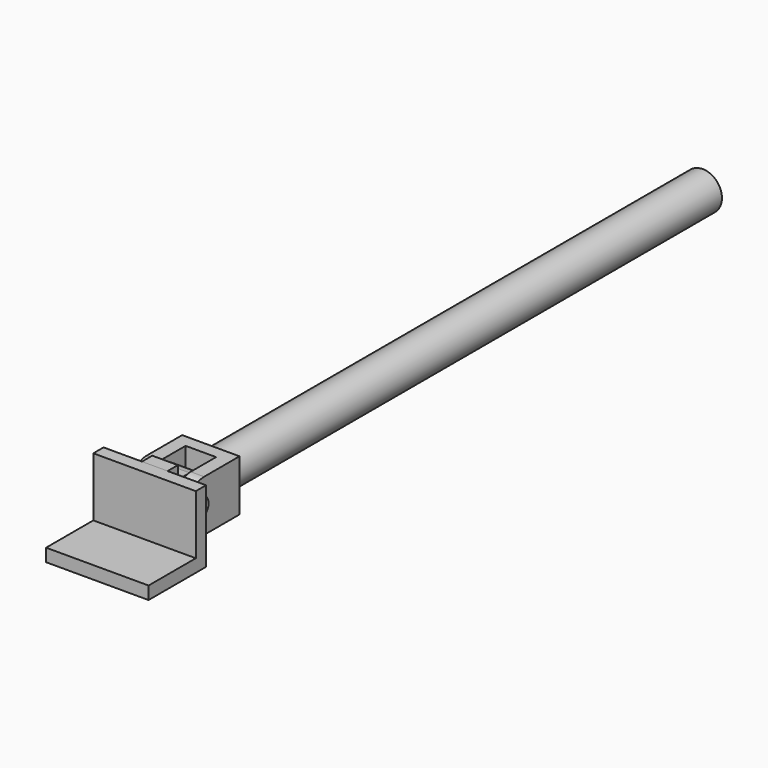
from build123d import *

# Parameters (mm, degrees)
F1_DEPTH  = 50.8
F2_W      = 25.4
F2_H      = 71.2560223817
F3_DEPTH  = 43.18
F4_R      = 9.525
F5_DEPTH  = 63.501
F7_DEPTH  = 63.501
F10_DEPTH = 25.4
F11_R     = 19.05
F12_R     = 9.525
F13_DEPTH = 79.2273342619
F14_R     = 19.05
F15_DEPTH = 609.6


with BuildPart() as f1:
    # F0 (on Right) → F1 (new body, symmetric)
    with BuildSketch(Plane.YZ):
        Polygon((-71.2560223817, 0), (0, 0), (0, 71.2560223817), (-12.7, 71.2560223817), (-12.7, 12.7), (-71.2560223817, 12.7), align=None)
    extrude(amount=F1_DEPTH, both=True)


with BuildPart() as f3:
    # F2 (on face) → F3 (new body)
    with BuildSketch(Plane(origin=(0, 0, 0), x_dir=(-1, 0, 0), z_dir=(0, 1, 0))):
        with Locations((0, 35.6280111909)):
            Rectangle(F2_W, F2_H)
    extrude(amount=F3_DEPTH)

    # F4 (on face) → F5 (cut, through all)
    with BuildSketch(Plane(origin=(-12.7, 0, 0), x_dir=(0, -1, 0), z_dir=(-1, 0, 0))):
        with Locations((-21.59, 35.6280111909)):
            Circle(F4_R)
    extrude(amount=-F5_DEPTH, mode=Mode.SUBTRACT)

    # F6 (on face) → F7 (cut, through all)
    with BuildSketch(Plane(origin=(-12.7, 0, 0), x_dir=(0, -1, 0), z_dir=(-1, 0, 0))):
        with BuildLine():
            ThreePointArc((-27.305, 12.7), (-38.5303201513, 17.3496798487), (-43.18, 28.575))
            Line((-43.18, 28.575), (-43.18, 0))
            Line((-43.18, 0), (-12.7, 0))
            Line((-12.7, 0), (-12.7, 12.7))
            Line((-12.7, 12.7), (-27.305, 12.7))
        make_face()
        with BuildLine():
            Line((-12.7, 58.5560223817), (-12.7, 71.2560223817))
            Line((-12.7, 71.2560223817), (-43.18, 71.2560223817))
            Line((-43.18, 71.2560223817), (-43.18, 42.6810223817))
            ThreePointArc((-43.18, 42.6810223817), (-38.5303201513, 53.9063425331), (-27.305, 58.5560223817))
            Line((-27.305, 58.5560223817), (-12.7, 58.5560223817))
        make_face()
    extrude(amount=-F7_DEPTH, mode=Mode.SUBTRACT)


with BuildPart() as f10:
    # F9 (on mid) → F10 (new body, symmetric)
    with BuildSketch(Plane.XY.offset(35.6280111909)):
        Polygon((15.1226995513, 57.0255741477), (15.1226995513, 6.4842337742), (28.4263342619, 6.4842337742), (28.4263342619, 69.4291517138), (-28.4263342619, 69.4291517138), (-28.4263342619, 6.4842337742), (-15.1226995513, 6.4842337742), (-15.1226995513, 57.0255741477), align=None)
    extrude(amount=F10_DEPTH, both=True)

    # F11
    f11_edges = [f10.edges().sort_by_distance(p)[0] for p in [
        (21.774517, 6.484234, 61.028011),
        (-21.774517, 6.484234, 61.028011),
        (21.774517, 6.484234, 10.228011),
        (-21.774517, 6.484234, 10.228011),
    ]]
    fillet(f11_edges, radius=F11_R)

    # F12 (on face) → F13 (cut, through all)
    with BuildSketch(Plane.YZ.offset(28.4263342619)):
        with Locations((21.59, 35.6280111909)):
            Circle(F12_R)
    extrude(amount=-F13_DEPTH, mode=Mode.SUBTRACT)


with BuildPart() as f15:
    # F14 (on face) → F15 (new body)
    with BuildSketch(Plane(origin=(0, 69.4291517138, 0), x_dir=(-1, 0, 0), z_dir=(0, 1, 0))):
        with Locations((0, 35.6280111909)):
            Circle(F14_R)
    extrude(amount=F15_DEPTH)


solid = Compound([f1.part, f3.part, f10.part, f15.part])
